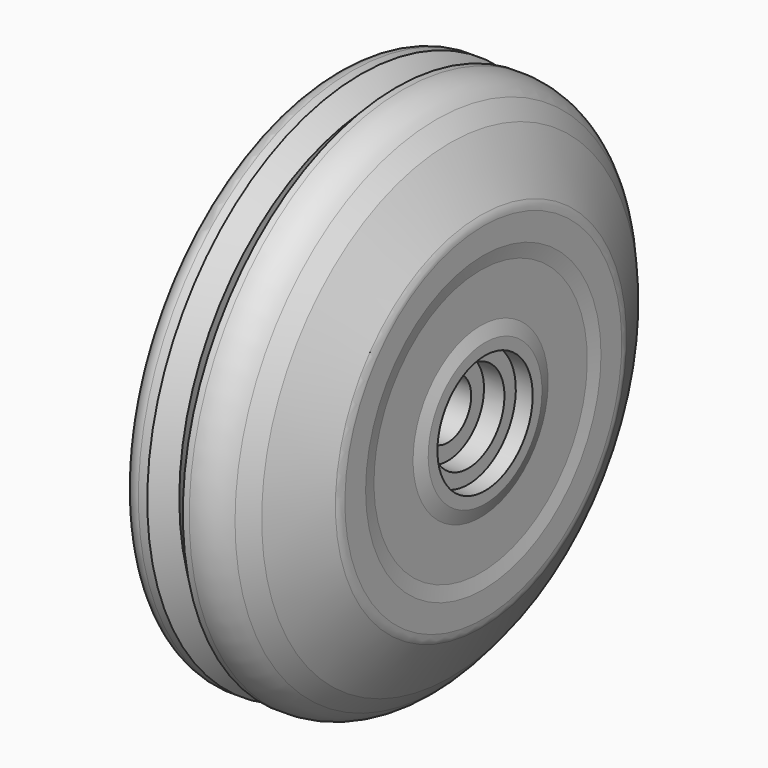
from build123d import *


with BuildPart() as f1:
    # F0 (on Front) → F1 (revolve)
    with BuildSketch(Plane.XZ):
        with BuildLine():
            Line((3, 30), (2, 30))
            ThreePointArc((2, 30), (0.585786, 29.414214), (0, 28))
            Line((0, 28), (0, 24.78538))
            ThreePointArc((0, 24.78538), (0.138391, 24.054345), (0.534413, 23.424478))
            Line((0.534413, 23.424478), (10.988391, 12.166348))
            ThreePointArc((10.988391, 12.166348), (11.471216, 10.354122), (10.240762, 8.938755))
            Line((10.240762, 8.938755), (1.282042, 5.493093))
            ThreePointArc((1.282042, 5.493093), (0.351377, 4.758675), (0, 3.626402))
            Line((0, 3.626402), (0, 0))
            Line((0, 0), (6.8, 0))
            Line((6.8, 0), (6.8, 3.3))
            Line((6.8, 3.3), (12.8, 3.3))
            Line((12.8, 3.3), (12.8, 5.1))
            Line((12.8, 5.1), (15.1, 5.1))
            Line((15.1, 5.1), (15.1, 6.7))
            Line((15.1, 6.7), (17, 6.7))
            Line((17, 6.7), (17, 8))
            Line((17, 8), (16.5, 9.5))
            Line((16.5, 9.5), (16.5, 15))
            Line((16.5, 15), (16.8, 16.552417))
            Line((16.8, 16.552417), (16.8, 19.464102))
            ThreePointArc((16.8, 19.464102), (16.731852, 19.98174), (16.532051, 20.464102))
            Line((16.532051, 20.464102), (13.056557, 26.483833))
            Line((13.056557, 26.483833), (11.494917, 28.280295))
            ThreePointArc((11.494917, 28.280295), (9.794835, 29.549806), (7.721369, 30))
            Line((7.721369, 30), (7, 30))
            Line((7, 30), (5, 28))
            Line((5, 28), (3, 30))
        make_face()
    revolve(axis=Axis((3.4, 0, 0), (-1, 0, 0)))


solid = f1.part
